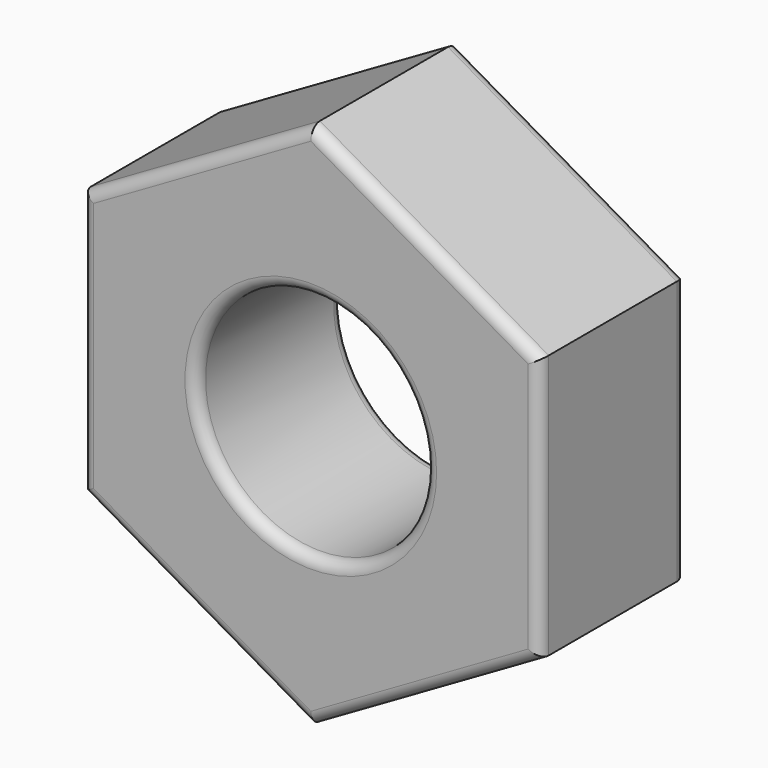
from build123d import *

# Parameters (mm, degrees)
F0_R     = 10
F1_DEPTH = 16
F2_R     = 1
F3_R     = 1


with BuildPart() as f1:
    # F0 (on Front) → F1 (new body)
    with BuildSketch(Plane.XZ):
        Polygon((-20, -11.547005), (0, -23.094011), (20, -11.547005), (20, 11.547005), (0, 23.094011), (-20, 11.547005), align=None)
        Circle(F0_R, mode=Mode.SUBTRACT)
    extrude(amount=F1_DEPTH)

    # F2
    f2_edges = [f1.edges().sort_by_distance(p)[0] for p in [
        (-20, -16, 0),
        (-10, -16, -17.320508),
        (10, -16, -17.320508),
        (20, -16, 0),
        (10, -16, 17.320508),
        (-10, -16, 17.320508),
        (-10, -16, 0),
    ]]
    fillet(f2_edges, radius=F2_R)

    # F3
    f3_edges = [f1.edges().sort_by_distance(p)[0] for p in [
        (-20, 0, 0),
        (-10, 0, -17.320508),
        (10, 0, -17.320508),
        (20, 0, 0),
        (10, 0, 17.320508),
        (-10, 0, 17.320508),
        (-10, 0, 0),
    ]]
    fillet(f3_edges, radius=F3_R)


solid = f1.part
